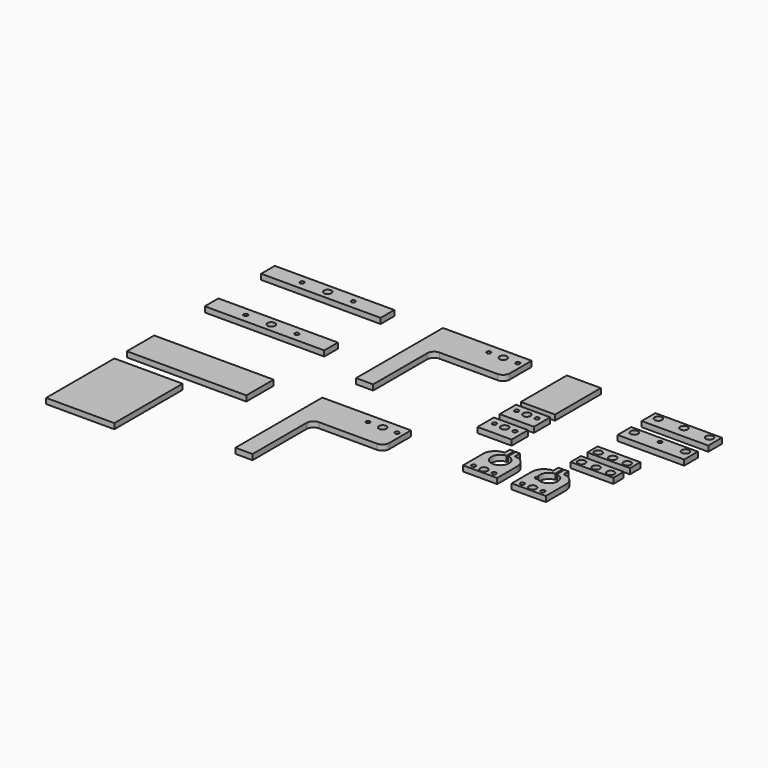
from build123d import *

# Parameters (mm, degrees)
F0_W     = 350
F0_H     = 50
F0_R     = 6
F0_R_2   = 11
F1_DEPTH = 16
F0_H_2   = 100
F0_W_2   = 200
F0_H_3   = 250
F0_W_3   = 100
F0_H_4   = 168
F0_H_5   = 60
F0_W_4   = 195
F0_W_5   = 125
F0_H_6   = 38
F0_R_3   = 26
F0_H_7   = 40
F2_W     = 4.3040805393
F2_H     = 34.2179611325
F3_DEPTH = 51
F7_R     = 6.3952540095
F8_DEPTH = 16.001


with BuildPart() as f1:
    # F0 (on Top) → F1 (new body)
    with BuildSketch(Plane.XY):
        with Locations((-618.1024432182, 310.2923572063)):
            Rectangle(F0_W, F0_H)
        with Locations((-693.1024432182, 310.2923572063)):
            Circle(F0_R, mode=Mode.SUBTRACT)
        with Locations((-618.1024432182, 310.2923572063)):
            Circle(F0_R_2, mode=Mode.SUBTRACT)
        with Locations((-543.1024432182, 310.2923572063)):
            Circle(F0_R, mode=Mode.SUBTRACT)
    extrude(amount=F1_DEPTH)


with BuildPart() as f1b:
    # F0 (on Top) → F1, piece 2 (new body)
    with BuildSketch(Plane.XY):
        with Locations((-618.1024432182, 50)):
            Rectangle(F0_W, F0_H_2)
    extrude(amount=F1_DEPTH)


with BuildPart() as f1c:
    # F0 (on Top) → F1, piece 3 (new body)
    with BuildSketch(Plane.XY):
        with BuildLine():
            Line((-40.5846738815, 541.7509832382), (-300.5846738815, 541.7509832382))
            Line((-300.5846738815, 541.7509832382), (-300.5846738815, 223.7509832382))
            Line((-300.5846738815, 223.7509832382), (-250.5846738815, 223.7509832382))
            Line((-250.5846738815, 223.7509832382), (-250.5846738815, 421.7509832382))
            ThreePointArc((-250.5846738815, 421.7509832382), (-244.7268095053, 435.893118862), (-230.5846738815, 441.7509832382))
            Line((-230.5846738815, 441.7509832382), (-60.5846738815, 441.7509832382))
            ThreePointArc((-60.5846738815, 441.7509832382), (-46.4425382578, 447.6088476145), (-40.5846738815, 461.7509832382))
            Line((-40.5846738815, 461.7509832382), (-40.5846738815, 541.7509832382))
        make_face()
        with Locations((-143.1507319212, 512.7509832382)):
            Circle(F0_R, mode=Mode.SUBTRACT)
        with Locations((-100.5846738815, 512.7509832382)):
            Circle(F0_R_2, mode=Mode.SUBTRACT)
        with Locations((-58.1507319212, 512.7509832382)):
            Circle(F0_R, mode=Mode.SUBTRACT)
    extrude(amount=F1_DEPTH)


with BuildPart() as f1d:
    # F0 (on Top) → F1, piece 4 (new body)
    with BuildSketch(Plane.XY):
        with Locations((-618.1024432182, 516.7509832382)):
            Rectangle(F0_W, F0_H)
        with Locations((-693.1024432182, 516.7509832382)):
            Circle(F0_R, mode=Mode.SUBTRACT)
        with Locations((-618.1024432182, 516.7509832382)):
            Circle(F0_R_2, mode=Mode.SUBTRACT)
        with Locations((-543.1024432182, 516.7509832382)):
            Circle(F0_R, mode=Mode.SUBTRACT)
    extrude(amount=F1_DEPTH)


with BuildPart() as f1e:
    # F0 (on Top) → F1, piece 5 (new body)
    with BuildSketch(Plane.XY):
        with BuildLine():
            Line((-40.5846738815, 100), (-300.5846738815, 100))
            Line((-300.5846738815, 100), (-300.5846738815, -218))
            Line((-300.5846738815, -218), (-250.5846738815, -218))
            Line((-250.5846738815, -218), (-250.5846738815, -20))
            ThreePointArc((-250.5846738815, -20), (-244.7268095053, -5.8578643763), (-230.5846738815, 0))
            Line((-230.5846738815, 0), (-60.5846738815, 0))
            ThreePointArc((-60.5846738815, 0), (-46.4425382578, 5.8578643763), (-40.5846738815, 20))
            Line((-40.5846738815, 20), (-40.5846738815, 100))
        make_face()
        with Locations((-143.1507319212, 71)):
            Circle(F0_R, mode=Mode.SUBTRACT)
        with Locations((-100.5846738815, 71)):
            Circle(F0_R_2, mode=Mode.SUBTRACT)
        with Locations((-58.1507319212, 71)):
            Circle(F0_R, mode=Mode.SUBTRACT)
    extrude(amount=F1_DEPTH)


with BuildPart() as f1f:
    # F0 (on Top) → F1, piece 6 (new body)
    with BuildSketch(Plane.XY):
        with Locations((-693.1024432182, -170.769572258)):
            Rectangle(F0_W_2, F0_H_3)
    extrude(amount=F1_DEPTH)


with BuildPart() as f1g:
    # F0 (on Top) → F1, piece 7 (new body)
    with BuildSketch(Plane.XY):
        with Locations((117.5586611032, 450.9979870319)):
            Rectangle(F0_W_3, F0_H_4)
    extrude(amount=F1_DEPTH)


with BuildPart() as f1h:
    # F0 (on Top) → F1, piece 8 (new body)
    with BuildSketch(Plane.XY):
        with Locations((117.5586611032, 319.5087003708)):
            Rectangle(F0_W_3, F0_H_5)
        with Locations((87.5586611032, 326.5087003708)):
            Circle(F0_R, mode=Mode.SUBTRACT)
        with Locations((117.5586611032, 326.5087003708)):
            Circle(F0_R_2, mode=Mode.SUBTRACT)
        with Locations((147.5586611032, 326.5087003708)):
            Circle(F0_R, mode=Mode.SUBTRACT)
    extrude(amount=F1_DEPTH)


with BuildPart() as f1i:
    # F0 (on Top) → F1, piece 9 (new body)
    with BuildSketch(Plane.XY):
        with Locations((439.9025177956, 490.9070074558)):
            Rectangle(F0_W_4, F0_H)
        with Locations((364.9025177956, 498.9070074558)):
            Circle(F0_R_2, mode=Mode.SUBTRACT)
        with Locations((439.9025177956, 498.9070074558)):
            Circle(F0_R_2, mode=Mode.SUBTRACT)
        with Locations((514.9025177956, 498.9070074558)):
            Circle(F0_R_2, mode=Mode.SUBTRACT)
    extrude(amount=F1_DEPTH)


with BuildPart() as f1j:
    # F0 (on Top) → F1, piece 10 (new body)
    with BuildSketch(Plane.XY):
        with Locations((117.5586611032, 238.277836442)):
            Rectangle(F0_W_3, F0_H_5)
        with Locations((87.5586611032, 245.277836442)):
            Circle(F0_R, mode=Mode.SUBTRACT)
        with Locations((117.5586611032, 245.277836442)):
            Circle(F0_R_2, mode=Mode.SUBTRACT)
        with Locations((147.5586611032, 245.277836442)):
            Circle(F0_R, mode=Mode.SUBTRACT)
    extrude(amount=F1_DEPTH)


with BuildPart() as f1k:
    # F0 (on Top) → F1, piece 11 (new body)
    with BuildSketch(Plane.XY):
        with Locations((439.9025177956, 402.6414692402)):
            Rectangle(F0_W_4, F0_H)
        with Locations((364.9025177956, 410.6414692402)):
            Circle(F0_R_2, mode=Mode.SUBTRACT)
        with Locations((439.9025177956, 410.6414692402)):
            Circle(F0_R, mode=Mode.SUBTRACT)
        with Locations((514.9025177956, 410.6414692402)):
            Circle(F0_R_2, mode=Mode.SUBTRACT)
    extrude(amount=F1_DEPTH)


with BuildPart() as f1l:
    # F0 (on Top) → F1, piece 12 (new body)
    with BuildSketch(Plane.XY):
        with Locations((404.9025177956, 285.5385305882)):
            Rectangle(F0_W_5, F0_H_6)
        with Locations((362.4025177956, 281.5385305881)):
            Circle(F0_R_2, mode=Mode.SUBTRACT)
        with Locations((404.9025177956, 281.5385305881)):
            Circle(F0_R_2, mode=Mode.SUBTRACT)
        with Locations((447.4025177956, 281.5385305881)):
            Circle(F0_R_2, mode=Mode.SUBTRACT)
    extrude(amount=F1_DEPTH)


with BuildPart() as f1m:
    # F0 (on Top) → F1, piece 13 (new body)
    with BuildSketch(Plane.XY):
        with Locations((404.9025177956, 224.7218253613)):
            Rectangle(F0_W_5, F0_H_6)
        with Locations((362.4025177956, 220.7218253613)):
            Circle(F0_R_2, mode=Mode.SUBTRACT)
        with Locations((404.9025177956, 220.7218253613)):
            Circle(F0_R_2, mode=Mode.SUBTRACT)
        with Locations((447.4025177956, 220.7218253613)):
            Circle(F0_R_2, mode=Mode.SUBTRACT)
    extrude(amount=F1_DEPTH)


with BuildPart() as f1n:
    # F0 (on Top) → F1, piece 14 (new body)
    with BuildSketch(Plane.XY):
        with BuildLine():
            Line((160.4645815161, 112.6294845343), (160.4645815161, 78.9540644288))
            Line((160.4645815161, 78.9540644288), (260.4645815161, 78.9540644288))
            Line((260.4645815161, 78.9540644288), (260.4645815161, 112.6294845343))
            ThreePointArc((260.4645815161, 112.6294845343), (250.2133188576, 137.3782218758), (225.4645815161, 147.6294845343))
            Line((225.4645815161, 147.6294845343), (225.4645815161, 166.5408164263))
            Line((225.4645815161, 166.5408164263), (212.0739363962, 166.5408164263))
            Line((212.0739363962, 166.5408164263), (208.9014202356, 166.5408164263))
            Line((208.9014202356, 166.5408164263), (195.5107751158, 166.5408164263))
            Line((195.5107751158, 166.5408164263), (195.5107751158, 147.6294540507))
            ThreePointArc((195.5107751158, 147.6294540507), (170.7321814707, 137.3945483944), (160.4645815161, 112.6294845343))
        make_face()
        with Locations((210.4645815161, 112.7848252654)):
            Circle(F0_R_3, mode=Mode.SUBTRACT)
        with Locations((210.4645815161, 58.9540644288)):
            Rectangle(F0_W_3, F0_H_7)
        with Locations((180.4645815161, 52.9540644288)):
            Circle(F0_R, mode=Mode.SUBTRACT)
        with Locations((210.4645815161, 52.9540644288)):
            Circle(F0_R_2, mode=Mode.SUBTRACT)
        with Locations((240.4645815161, 52.9540644288)):
            Circle(F0_R, mode=Mode.SUBTRACT)
    extrude(amount=F1_DEPTH)

    # F2 (on face) → F3 (cut)
    with BuildSketch(Plane(origin=(0, 166.5408164263, 0), x_dir=(-1, 0, 0), z_dir=(0, 1, 0))):
        with Locations((-210.4876783159, 0)):
            Rectangle(F2_W, F2_H)
    extrude(amount=-F3_DEPTH, mode=Mode.SUBTRACT)


with BuildPart() as f4_1:
    # F4: copy of F1n
    add(f1n.part)


with BuildPart() as f5_1:
    # F5: copy of F4_1
    add(f4_1.part.moved(Location((142.7, 0, 0))))

    # F7 (on face) → F8 (cut, through all)
    with BuildSketch(Plane.XY.offset(16)):
        with Locations((332.5845653093, 96.8957430726)):
            Circle(F7_R)
    extrude(amount=-F8_DEPTH, mode=Mode.SUBTRACT)


solid = Compound([f1.part, f1b.part, f1c.part, f1d.part, f1e.part, f1f.part, f1g.part, f1h.part, f1i.part, f1j.part, f1k.part, f1l.part, f1m.part, f1n.part, f5_1.part])
